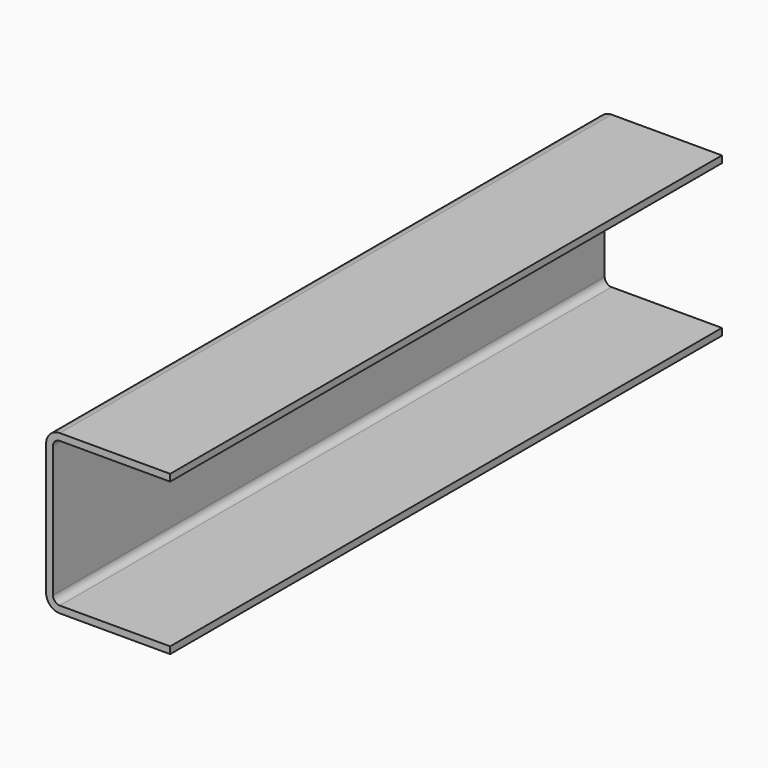
from build123d import *

# Parameters (mm, degrees)
F1_DEPTH = 250


with BuildPart() as f1:
    # F0 (on Front) → F1 (new body, symmetric)
    with BuildSketch(Plane.XZ):
        with BuildLine():
            ThreePointArc((-45.13445, 54.941859), (-52.205518, 52.012927), (-55.13445, 44.941859))
            Line((-55.13445, 44.941859), (-55.13445, -50.170786))
            ThreePointArc((-55.13445, -50.170786), (-52.205518, -57.241853), (-45.13445, -60.170786))
            Line((-45.13445, -60.170786), (34.832849, -60.170786))
            Line((34.832849, -60.170786), (34.832849, -55.170786))
            Line((34.832849, -55.170786), (-45.13445, -55.170786))
            ThreePointArc((-45.13445, -55.170786), (-48.669984, -53.70632), (-50.13445, -50.170786))
            Line((-50.13445, -50.170786), (-50.13445, 44.941859))
            ThreePointArc((-50.13445, 44.941859), (-48.669984, 48.477393), (-45.13445, 49.941859))
            Line((-45.13445, 49.941859), (34.832849, 49.941859))
            Line((34.832849, 49.941859), (34.832849, 54.941859))
            Line((34.832849, 54.941859), (-45.13445, 54.941859))
        make_face()
    extrude(amount=F1_DEPTH, both=True)


solid = f1.part
